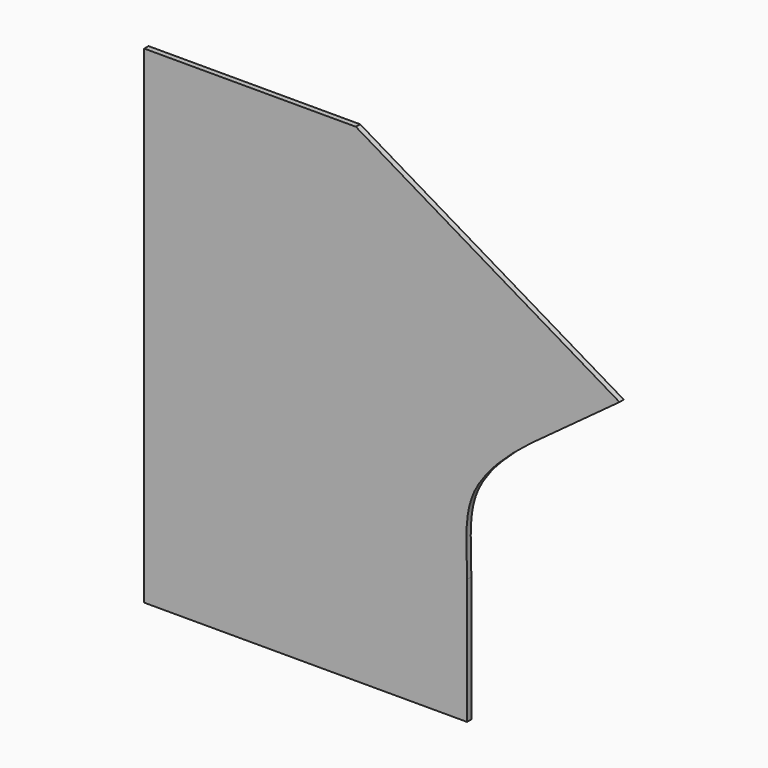
from build123d import *

# Parameters (mm, degrees)
F1_DEPTH = 3


with BuildPart() as f1:
    # F0 (on Front) → F1 (new body)
    with BuildSketch(Plane.XZ):
        with BuildLine():
            Line((0, 272), (0, 0))
            Line((0, 0), (180, 0))
            Line((180, 0), (180, 70))
            add(Edge.make_bspline(
                [(215.824013933, 148.5454355016), (208.91407131, 143.3580070922), (174.748380555, 116.4051533787), (180.2117525716, 86.4379331497), (180, 70)],
                knots=[0, 0, 0, 0, 0.4976525843, 1, 1, 1, 1], degree=3))
            Line((215.824013933, 148.5454355016), (265, 184.6386813286))
            Line((265, 184.6386813286), (118, 272))
            Line((118, 272), (0, 272))
        make_face()
    extrude(amount=F1_DEPTH)


solid = f1.part
